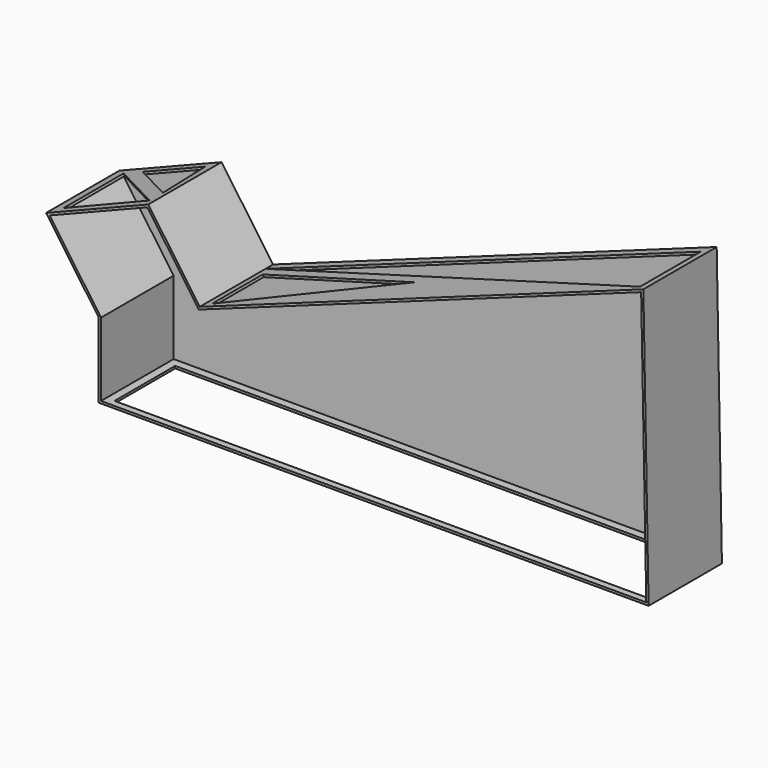
from build123d import *

# Parameters (mm, degrees)
F1_DEPTH  = 3048
F2_DEPTH  = 30.48
F3_W      = 17687.1223449707
F3_H      = 2522.5413739681
F4_DEPTH  = 76.2
F6_DEPTH  = 76.2
F8_DEPTH  = 76.2
F10_DEPTH = 76.2


with BuildPart() as f1:
    # F0 (on Front) → F1 (new body)
    with BuildSketch(Plane.XZ):
        Polygon((-8880.4617928976, 2493.4260717333), (-8880.4617928976, 0), (9407.5382071024, 0), (9233.8030495369, 9211.8360040146), (-5521.3427824696, 3901.8376413841), (-7233.6014127771, 6340.5457381612), (-10631.917656107, 4987.9613709884), align=None)
        Polygon((9329.887524738, 76.2), (-8804.2617928976, 76.2), (-8804.2617928976, 2517.505473951), (-10514.1409116915, 4952.8245184599), (-7261.3657660972, 6247.4811945402), (-5550.2778606278, 3810.4405188473), (9159.6203535084, 9104.1554248762), align=None, mode=Mode.SUBTRACT)
    extrude(amount=F1_DEPTH)

    # F0 (on Front) → F2 (join)
    with BuildSketch(Plane.XZ):
        Polygon((-8804.2617928976, 2517.505473951), (-8804.2617928976, 76.2), (9329.887524738, 76.2), (9159.6203535084, 9104.1554248762), (-5550.2778606277, 3810.4405188473), (-7261.3657660972, 6247.4811945402), (-10514.1409116915, 4952.8245184599), align=None)
    extrude(amount=F2_DEPTH)

    # F3 (on face) → F4 (cut)
    with BuildSketch(Plane(origin=(0, 0, 0), x_dir=(1, 0, 0), z_dir=(0, 0, -1))):
        with Locations((310.5039596558, 1564.8585110903)):
            Rectangle(F3_W, F3_H)
    extrude(amount=-F4_DEPTH, mode=Mode.SUBTRACT)

    # F5 (on face) → F6 (cut)
    with BuildSketch(Plane(origin=(-1876.2460472386, 0, 5213.6144219105), x_dir=(0.9409250878, 0, 0.3386147946), z_dir=(-0.3386147946, 0, 0.9409250878))):
        Polygon((-3873.9499907871, -313.7955665588), (11510.6267929077, -2836.4181518555), (11510.6267929077, -313.7955665588), align=None)
    extrude(amount=-F6_DEPTH, mode=Mode.SUBTRACT)

    # F7 (on face) → F8 (cut)
    with BuildSketch(Plane(origin=(-1876.2460472386, 0, 5213.6144219105), x_dir=(0.9409250878, 0, 0.3386147946), z_dir=(-0.3386147946, 0, 0.9409250878))):
        Polygon((-3606.9869995117, -739.26872015), (-3606.9869995117, -2843.4114456177), (2668.9372062683, -1808.3090782166), align=None)
    extrude(amount=-F8_DEPTH, mode=Mode.SUBTRACT)

    # F9 (on face) → F10 (cut)
    with BuildSketch(Plane(origin=(-3167.7395786508, 0, 7958.823956593), x_dir=(0.9291109589, 0, 0.3698010628), z_dir=(-0.3698010628, 0, 0.9291109589))):
        Polygon((-4606.1234474182, -2172.8833437942), (-4735.4502677917, -264.1396820545), (-6970.9477424622, -264.1396820545), align=None)
        Polygon((-7654.5295715332, -264.1396820545), (-7654.5295715332, -2758.5670948029), (-4606.1234474182, -2724.6294021606), align=None)
    extrude(amount=-F10_DEPTH, mode=Mode.SUBTRACT)


solid = f1.part
